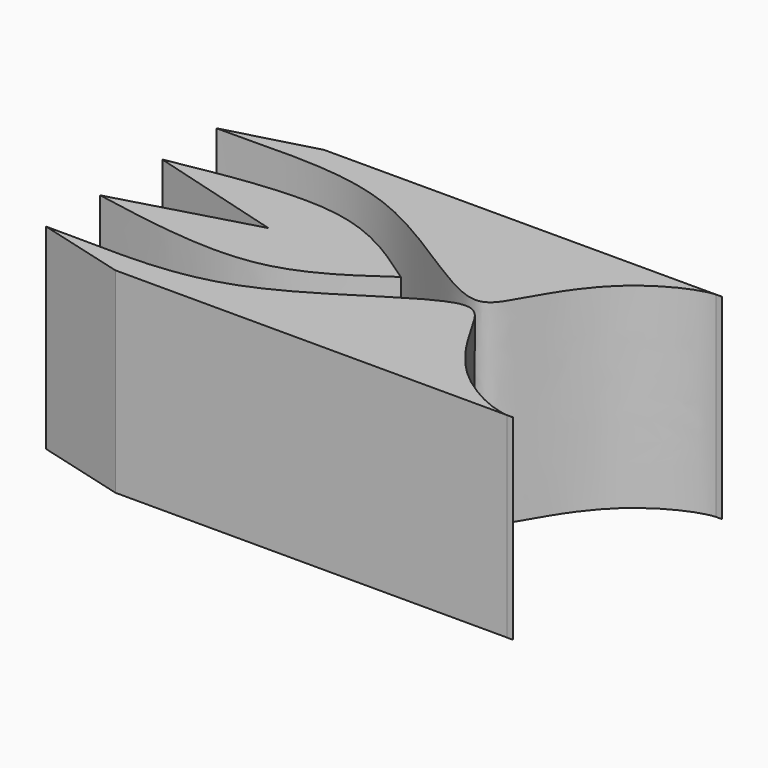
from build123d import *

# Parameters (mm, degrees)
F1_DEPTH = 25.4


with BuildPart() as f1:
    # F0 (on Top) → F1 (new body)
    with BuildSketch(Plane.XY):
        with BuildLine():
            Line((-34.7402840853, 16.9199891388), (-46.2236478925, 13.8083361089))
            add(Edge.make_bspline(
                [(-46.2236478925, 13.8083361089), (-38.0914208979, 13.6853341205), (-23.0248208357, 15.7433117304), (-2.5105837174, -2.1142398639), (1.2194582721, 3.900932001), (6.043774636, 12.8757415107), (13.7232416145, 16.7462701598), (16.0630768137, 16.9418061274)],
                knots=[0, 0, 0, 0, 0.2448509172, 0.4823807116, 0.5861602814, 0.7529825552, 0.8965021251, 0.8965021251, 0.8965021251, 0.8965021251], degree=3))
            Line((16.0630768137, 16.9418061274), (-34.7402840853, 16.9199891388))
        make_face()
    extrude(amount=F1_DEPTH)


with BuildPart() as f1b:
    # F0 (on Top) → F1, piece 2 (new body)
    with BuildSketch(Plane.XY):
        with BuildLine():
            add(Edge.make_bspline(
                [(16.0630768137, 16.9418061274), (16.3418224495, 16.9651004165), (16.6033732141, 16.9657666666), (16.8442111462, 16.9421415776)],
                knots=[0.8965021251, 0.8965021251, 0.8965021251, 0.8965021251, 0.913599677, 0.913599677, 0.913599677, 0.913599677], degree=3))
            Line((16.0630768137, 16.9418061274), (16.8442111462, 16.9421415776))
        make_face()
    extrude(amount=F1_DEPTH)


with BuildPart() as f1c:
    # F0 (on Top) → F1, piece 3 (new body)
    with BuildSketch(Plane.XY):
        with BuildLine():
            add(Edge.make_bspline(
                [(-11.2632587552, 0), (-15.2542342041, -2.8132861618), (-24.1308396202, -9.0705111187), (-38.3806425122, -6.467453982), (-46.2236478925, -5.0347470678)],
                knots=[0, 0, 0, 0, 0.4496060444, 1, 1, 1, 1], degree=3))
            add(Edge.make_bspline(
                [(-11.2632587552, 0), (-15.2542342041, 2.8132861618), (-24.1308396202, 9.0705111187), (-38.3806425122, 6.467453982), (-46.2236478925, 5.0347470678)],
                knots=[0, 0, 0, 0, 0.4496060444, 1, 1, 1, 1], degree=3))
            Line((-46.2236478925, 5.0347470678), (-28.4308325499, 0))
            Line((-28.4308325499, 0), (-46.2236478925, -5.0347470678))
        make_face()
    extrude(amount=F1_DEPTH)


with BuildPart() as f1d:
    # F0 (on Top) → F1, piece 4 (new body)
    with BuildSketch(Plane.XY):
        with BuildLine():
            Line((16.8442111462, -16.9421415776), (16.0630768137, -16.9418061274))
            add(Edge.make_bspline(
                [(16.0630768137, -16.9418061274), (16.3418224495, -16.9651004165), (16.6033732141, -16.9657666666), (16.8442111462, -16.9421415776)],
                knots=[0.8965021251, 0.8965021251, 0.8965021251, 0.8965021251, 0.913599677, 0.913599677, 0.913599677, 0.913599677], degree=3))
        make_face()
    extrude(amount=F1_DEPTH)


with BuildPart() as f1e:
    # F0 (on Top) → F1, piece 5 (new body)
    with BuildSketch(Plane.XY):
        with BuildLine():
            add(Edge.make_bspline(
                [(-46.2236478925, -13.8083361089), (-38.0914208979, -13.6853341205), (-23.0248208357, -15.7433117304), (-2.5105837174, 2.1142398639), (1.2194582721, -3.900932001), (6.043774636, -12.8757415107), (13.7232416145, -16.7462701598), (16.0630768137, -16.9418061274)],
                knots=[0, 0, 0, 0, 0.2448509172, 0.4823807116, 0.5861602814, 0.7529825552, 0.8965021251, 0.8965021251, 0.8965021251, 0.8965021251], degree=3))
            Line((-46.2236478925, -13.8083361089), (-34.7402840853, -16.9199891388))
            Line((-34.7402840853, -16.9199891388), (16.0630768137, -16.9418061274))
        make_face()
    extrude(amount=F1_DEPTH)


solid = Compound([f1.part, f1b.part, f1c.part, f1d.part, f1e.part])
